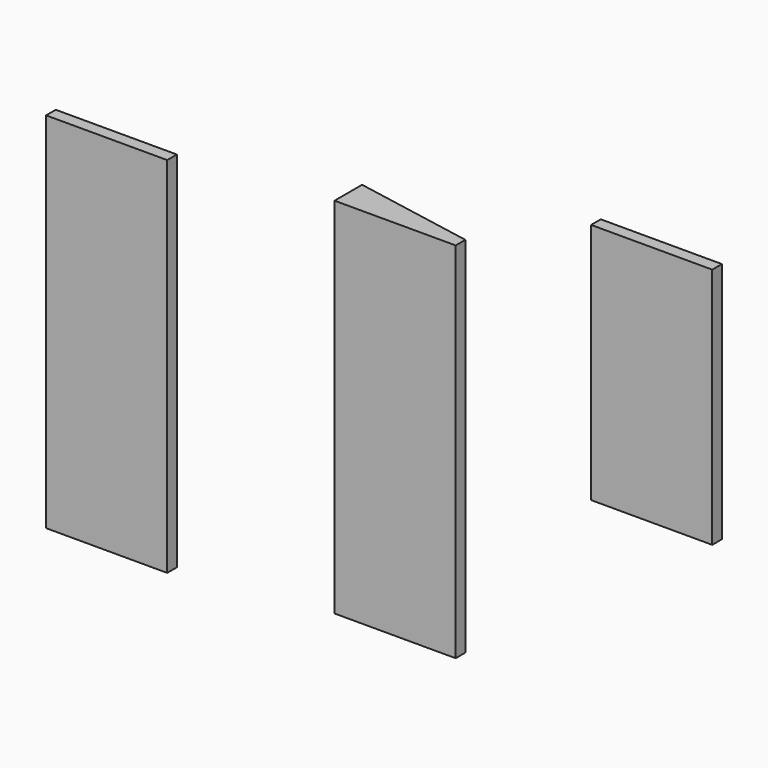
from build123d import *

# Parameters (mm, degrees)
F0_W     = 25.4
F0_H     = 2.54
F1_DEPTH = 76.2
F3_DEPTH = 35.306
F4_W     = 25.4
F4_H     = 2.54
F5_DEPTH = 76.2
F6_W     = 25.4
F6_H     = 2.54
F7_DEPTH = 50.8


with BuildPart() as f1:
    # F0 (on Top) → F1 (new body)
    with BuildSketch(Plane.XY):
        with Locations((-23.434786, -34.794446)):
            Rectangle(F0_W, F0_H)
    extrude(amount=F1_DEPTH)

    # F2 (on Top) → F3 (cut)
    with BuildSketch(Plane.XY):
        Polygon((39.735686, -23.066446), (-36.424875, -23.655012), (-36.424875, -35.426304), (39.735686, -35.426304), align=None)
    extrude(amount=-F3_DEPTH, mode=Mode.SUBTRACT)


with BuildPart() as f5:
    # F4 (on Top) → F5 (new body)
    with BuildSketch(Plane.XY):
        Polygon((19.642346, -22.959389), (19.642737, -27.648653), (45.042737, -27.648653), align=None)
        with Locations((32.342737, -28.918653)):
            Rectangle(F4_W, F4_H)
    extrude(amount=F5_DEPTH)


with BuildPart() as f7:
    # F6 (on Top) → F7 (new body)
    with BuildSketch(Plane.XY):
        with Locations((40.028127, 28.716524)):
            Rectangle(F6_W, F6_H)
    extrude(amount=F7_DEPTH)


solid = Compound([f1.part, f5.part, f7.part])
